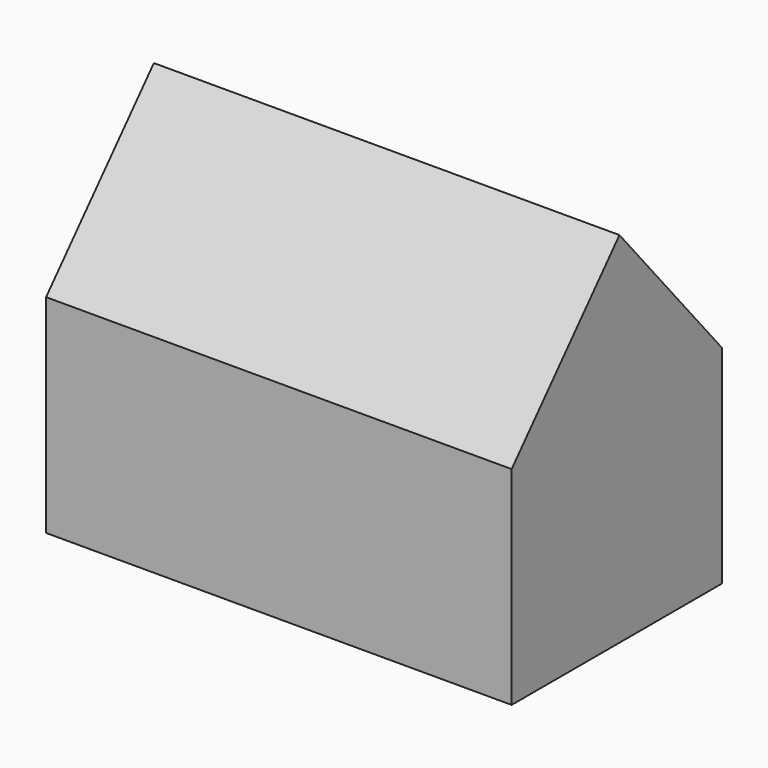
from build123d import *

# Parameters (mm, degrees)
F0_W     = 57.356569916
F0_H     = 45.3068669885
F1_DEPTH = 101.6
F2_T     = -2.54


with BuildPart() as f1:
    # F0 (on Right) → F1 (new body)
    with BuildSketch(Plane.YZ):
        with Locations((-0.7229857147, -5.7838549837)):
            Rectangle(F0_W, F0_H)
        Polygon((0, 49.8857535422), (-29.4012706727, 16.8695785105), (27.9552992433, 16.8695785105), align=None)
    extrude(amount=F1_DEPTH)

    # F2
    f2_openings = [f1.faces().sort_by_distance(p)[0] for p in [
        (0, -0.658626, 3.204954),
    ]]
    offset(amount=F2_T, openings=f2_openings)


solid = f1.part
